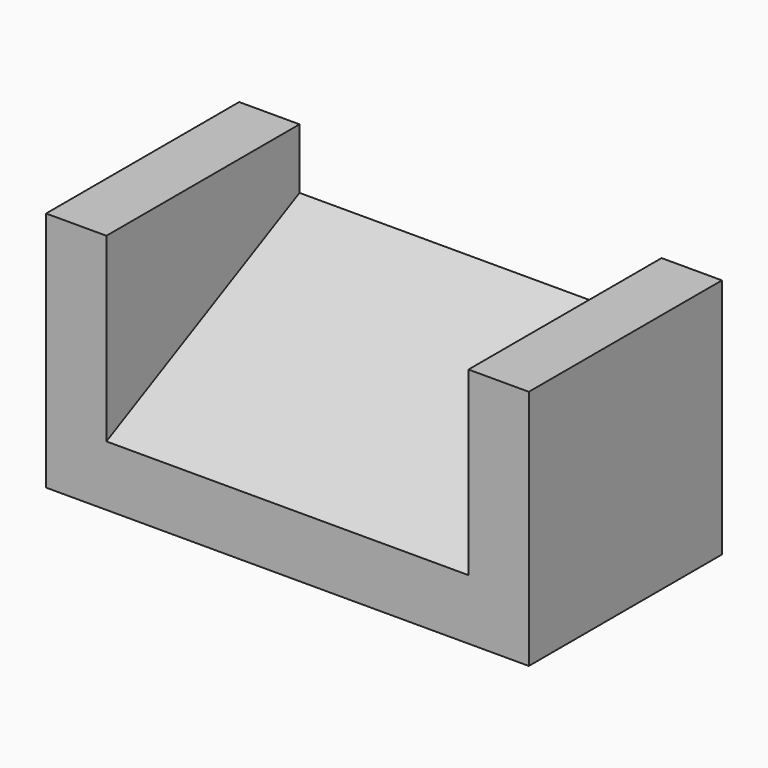
from build123d import *

# Parameters (mm, degrees)
F1_DEPTH = 30
F2_W     = 5
F2_H     = 20
F3_DEPTH = 20


with BuildPart() as f1:
    # F0 (on Right) → F1 (new body)
    with BuildSketch(Plane.YZ):
        Polygon((0, 5), (0, 0), (20, 0), (20, 15), align=None)
    extrude(amount=F1_DEPTH)

    # F2 (on Front) → F3 (join)
    with BuildSketch(Plane.XZ):
        with Locations((-2.5, 10)):
            Rectangle(F2_W, F2_H)
        Polygon((30, 5), (30, 0), (35, 0), (35, 20), (30, 20), (30, 15), align=None)
    extrude(amount=-F3_DEPTH)


solid = f1.part
